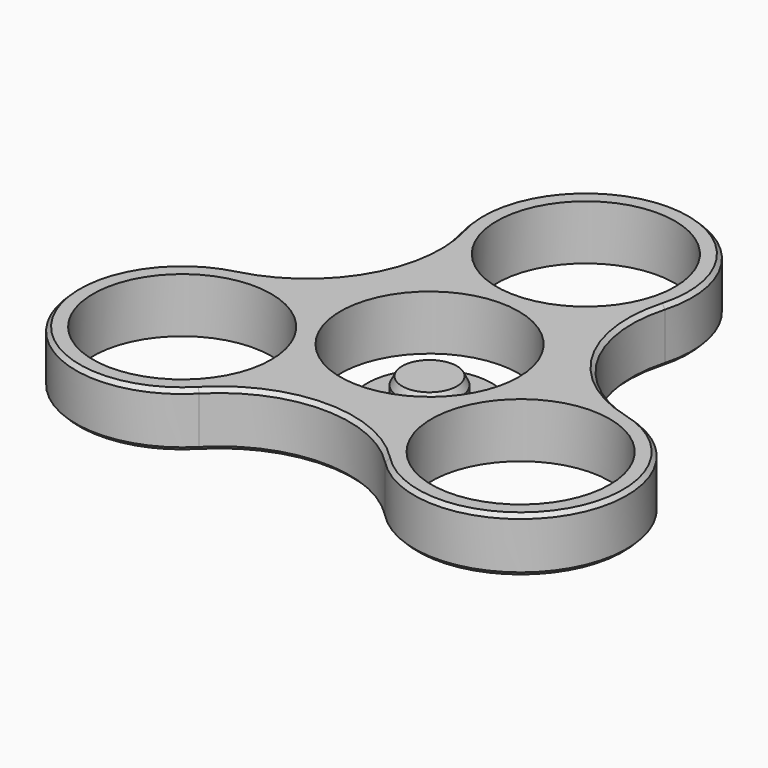
from build123d import *

# Parameters (mm, degrees)
F0_R     = 11.4
F1_DEPTH = 7
F2_R     = 8
F2_R_2   = 4
F3_DEPTH = 1.5
F4_DEPTH = 3.4
F5_SIZE2 = 1
F5_SIZE  = 0.5
F6_SIZE  = 0.5


with BuildPart() as f1:
    # F0 (on Top) → F1 (new body)
    with BuildSketch(Plane.XY):
        with BuildLine():
            ThreePointArc((-11.9034126116, -21.9842845733), (0, -16.9581287631), (11.9034126116, -21.9842845733))
            ThreePointArc((11.9034126116, -21.9842845733), (33.4285805861, -19.3), (24.9906552303, 0.6834845733))
            ThreePointArc((24.9906552303, 0.6834845733), (14.6861703095, 8.4790643815), (13.0872426187, 21.3008))
            ThreePointArc((13.0872426187, 21.3008), (0, 38.6), (-13.0872426187, 21.3008))
            ThreePointArc((-13.0872426187, 21.3008), (-14.6861703095, 8.4790643815), (-24.9906552303, 0.6834845733))
            ThreePointArc((-24.9906552303, 0.6834845733), (-33.4285805861, -19.3), (-11.9034126116, -21.9842845733))
        make_face()
        with Locations((-21.6506350946, -12.5)):
            Circle(F0_R, mode=Mode.SUBTRACT)
        with Locations((21.6506350946, -12.5)):
            Circle(F0_R, mode=Mode.SUBTRACT)
        Circle(F0_R, mode=Mode.SUBTRACT)
        with Locations((0, 25)):
            Circle(F0_R, mode=Mode.SUBTRACT)
    extrude(amount=F1_DEPTH)

    # F6
    f6_edges = [f1.edges().sort_by_distance(p)[0] for p in [
        (0, -16.958129, 0),
        (0, -16.958129, 7),
    ]]
    chamfer(f6_edges, length=F6_SIZE)


with BuildPart() as f3:
    # F2 (on Top) → F3 (new body)
    with BuildSketch(Plane.XY):
        Circle(F2_R)
        Circle(F2_R_2, mode=Mode.SUBTRACT)
        Circle(F2_R_2)
    extrude(amount=-F3_DEPTH)

    # F2 (on Top) → F4 (join)
    with BuildSketch(Plane.XY):
        Circle(F2_R_2)
    extrude(amount=F4_DEPTH)

    # F5
    f5_edges = [f3.edges().sort_by_distance(p)[0] for p in [
        (-4, 0, 3.4),
    ]]
    f5_side = f3.faces().sort_by_distance((0, 0, 3.4))[0]
    chamfer(f5_edges, length=F5_SIZE, length2=F5_SIZE2, reference=f5_side)


solid = Compound([f1.part, f3.part])
